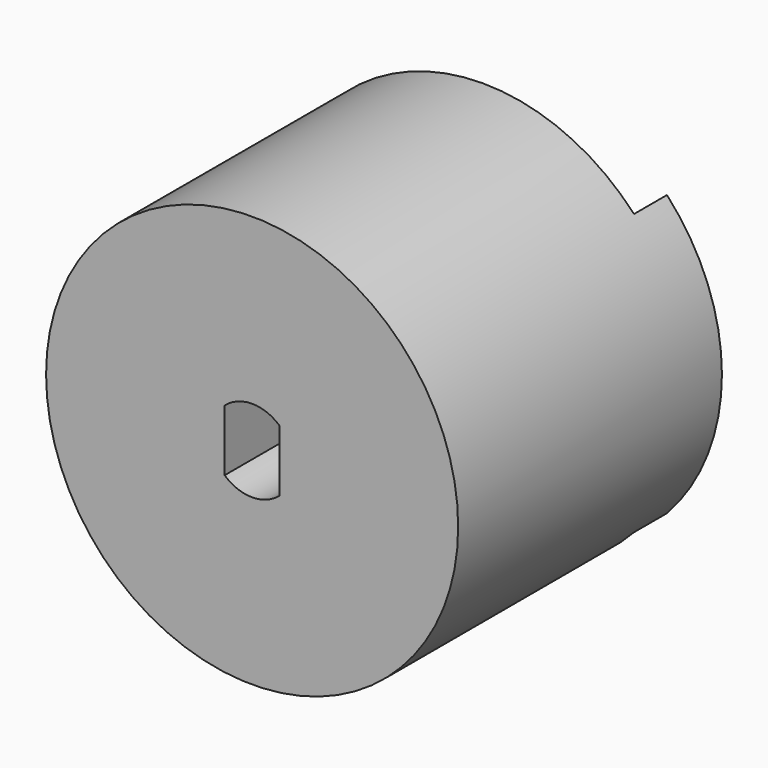
from build123d import *

# Parameters (mm, degrees)
F0_R     = 15
F1_DEPTH = 24
F2_W     = 11
F2_H     = 3
F3_DEPTH = 15
F5_R     = 3.056512
F5_R_2   = 1.567652
F6_DEPTH = 10


with BuildPart() as f1:
    # F0 (on Front) → F1 (new body)
    with BuildSketch(Plane.XZ):
        Circle(F0_R)
        with BuildLine():
            ThreePointArc((2, -2.236068), (0, -3), (-2, -2.236068))
            Line((-2, -2.236068), (-2, 2.236068))
            ThreePointArc((-2, 2.236068), (0, 3), (2, 2.236068))
            Line((2, 2.236068), (2, -2.236068))
        make_face(mode=Mode.SUBTRACT)
    extrude(amount=F1_DEPTH)

    # F2 (on Top) → F3 (cut, symmetric)
    with BuildSketch(Plane.XY):
        with Locations((-5.5, -1.5)):
            Rectangle(F2_W, F2_H)
        with Locations((5.5, -1.5)):
            Rectangle(F2_W, F2_H)
    extrude(amount=F3_DEPTH, both=True, mode=Mode.SUBTRACT)

    # F5 (on offset) → F6 (join)
    with BuildSketch(Plane(origin=(0, -3, 0), x_dir=(-1, 0, 0), z_dir=(0, 1, 0))):
        Circle(F5_R)
        Circle(F5_R_2, mode=Mode.SUBTRACT)
    extrude(amount=-F6_DEPTH)


solid = f1.part
